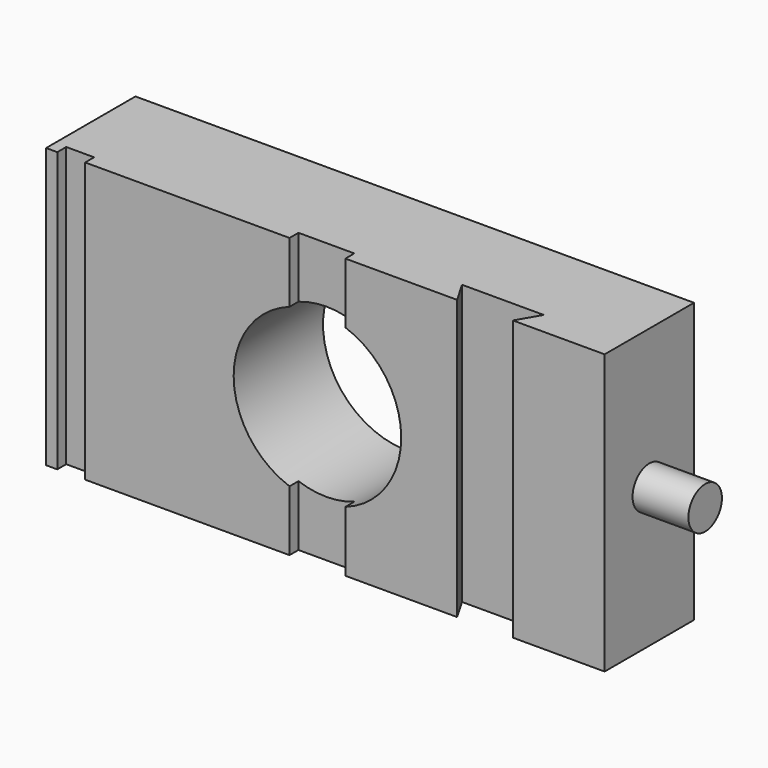
from build123d import *

# Parameters (mm, degrees)
F0_W     = 127
F0_H     = 63.5
F0_R     = 19.05
F1_DEPTH = 25.4
F2_W     = 6.35
F2_H     = 63.5
F2_W_2   = 12.7
F3_DEPTH = 2.54
F5_DEPTH = 66.04
F6_R     = 4.7625
F7_DEPTH = 12.7


with BuildPart() as f1:
    # F0 (on Front) → F1 (new body)
    with BuildSketch(Plane.XZ):
        with Locations((1.798787, 0)):
            Rectangle(F0_W, F0_H)
        Circle(F0_R, mode=Mode.SUBTRACT)
    extrude(amount=F1_DEPTH)

    # F2 (on face) → F3 (cut)
    with BuildSketch(Plane.XZ.offset(25.4)):
        with Locations((-55.986213, 0)):
            Rectangle(F2_W, F2_H)
        Rectangle(F2_W_2, F2_H)
        Rectangle(F2_W_2, F2_H)
    extrude(amount=-F3_DEPTH, mode=Mode.SUBTRACT)

    # F4 (on face) → F5 (cut)
    with BuildSketch(Plane(origin=(0, 0, -31.75), x_dir=(1, 0, 0), z_dir=(0, 0, -1))):
        Polygon((44.45, 25.4), (31.75, 25.4), (28.817061, 20.32), (47.382939, 20.32), align=None)
    extrude(amount=-F5_DEPTH, mode=Mode.SUBTRACT)

    # F6 (on face) → F7 (join)
    with BuildSketch(Plane.YZ.offset(65.298787)):
        with Locations((-12.7, 0)):
            Circle(F6_R)
    extrude(amount=F7_DEPTH)


solid = f1.part
